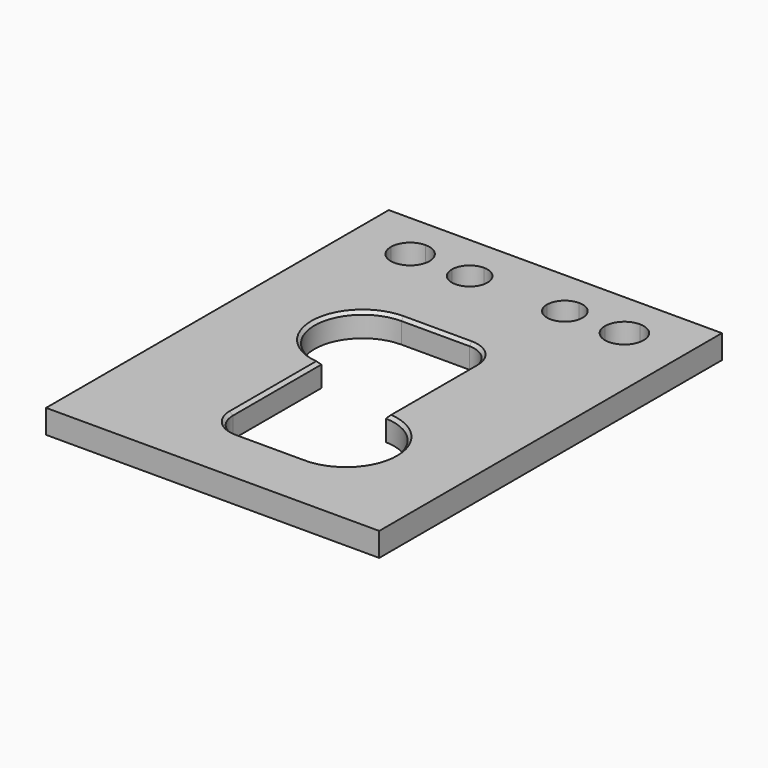
from build123d import *

# Parameters (mm, degrees)
F1_DEPTH = 6.35
F2_SIZE  = 0.8128


with BuildPart() as f1:
    # F0 (on Top) → F1 (new body)
    with BuildSketch(Plane.XY):
        with BuildLine():
            Line((-44.45, -57.15), (44.45, -57.15))
            Line((44.45, -57.15), (44.45, 44.45))
            Line((44.45, 44.45), (33.7312, 44.45))
            ThreePointArc((33.7312, 44.45), (28.575, 39.2938), (23.4188, 44.45))
            Line((23.4188, 44.45), (17.4625, 44.45))
            ThreePointArc((17.4625, 44.45), (12.7, 39.6875), (7.9375, 44.45))
            Line((7.9375, 44.45), (-7.9375, 44.45))
            ThreePointArc((-7.9375, 44.45), (-12.7, 39.6875), (-17.4625, 44.45))
            Line((-17.4625, 44.45), (-23.4188, 44.45))
            ThreePointArc((-23.4188, 44.45), (-28.575, 39.2938), (-33.7312, 44.45))
            Line((-33.7312, 44.45), (-44.45, 44.45))
            Line((-44.45, 44.45), (-44.45, -57.15))
        make_face()
        with BuildLine():
            Line((-12.109895, 20.903632), (6.057415, 20.903632))
            ThreePointArc((6.057415, 20.903632), (10.873895, 18.908581), (12.868946, 14.092101))
            Line((12.868946, 14.092101), (12.868946, -15.48064))
            ThreePointArc((12.868946, -15.48064), (25.361762, -28.701794), (12.140608, -41.194611))
            Line((12.140608, -41.194611), (-6.026703, -41.194611))
            ThreePointArc((-6.026703, -41.194611), (-10.843182, -39.19956), (-12.838233, -34.383081))
            Line((-12.838233, -34.383081), (-12.838233, -4.810339))
            ThreePointArc((-12.838233, -4.810339), (-24.972037, 8.400646), (-12.109895, 20.903632))
        make_face(mode=Mode.SUBTRACT)
        with BuildLine():
            Line((33.7312, 44.45), (44.45, 44.45))
            Line((44.45, 44.45), (44.45, 57.15))
            Line((44.45, 57.15), (28.575, 57.15))
            Line((28.575, 57.15), (28.575, 49.6062))
            ThreePointArc((28.575, 49.6062), (32.220984, 48.095984), (33.7312, 44.45))
        make_face()
        with BuildLine():
            Line((-44.45, 57.15), (-44.45, 44.45))
            Line((-44.45, 44.45), (-33.7312, 44.45))
            ThreePointArc((-33.7312, 44.45), (-32.220984, 48.095984), (-28.575, 49.6062))
            Line((-28.575, 49.6062), (-28.575, 57.15))
            Line((-28.575, 57.15), (-44.45, 57.15))
        make_face()
        with BuildLine():
            Line((28.575, 49.6062), (28.575, 57.15))
            Line((28.575, 57.15), (12.7, 57.15))
            Line((12.7, 57.15), (12.7, 49.2125))
            ThreePointArc((12.7, 49.2125), (16.067596, 47.817596), (17.4625, 44.45))
            Line((17.4625, 44.45), (23.4188, 44.45))
            ThreePointArc((23.4188, 44.45), (24.929016, 48.095984), (28.575, 49.6062))
        make_face()
        with BuildLine():
            Line((-12.7, 57.15), (-28.575, 57.15))
            Line((-28.575, 57.15), (-28.575, 49.6062))
            ThreePointArc((-28.575, 49.6062), (-24.929016, 48.095984), (-23.4188, 44.45))
            Line((-23.4188, 44.45), (-17.4625, 44.45))
            ThreePointArc((-17.4625, 44.45), (-16.067596, 47.817596), (-12.7, 49.2125))
            Line((-12.7, 49.2125), (-12.7, 57.15))
        make_face()
        with BuildLine():
            Line((12.7, 49.2125), (12.7, 57.15))
            Line((12.7, 57.15), (-12.7, 57.15))
            Line((-12.7, 57.15), (-12.7, 49.2125))
            ThreePointArc((-12.7, 49.2125), (-9.332404, 47.817596), (-7.9375, 44.45))
            Line((-7.9375, 44.45), (7.9375, 44.45))
            ThreePointArc((7.9375, 44.45), (9.332404, 47.817596), (12.7, 49.2125))
        make_face()
    extrude(amount=-F1_DEPTH)

    # F2
    f2_edges = [f1.edges().sort_by_distance(p)[0] for p in [
        (12.868946, -0.694269, 0),
        (-12.838233, -19.59671, 0),
        (-10.843182, -39.19956, 0),
        (3.056952, -41.194611, 0),
        (25.361762, -28.701794, 0),
    ]]
    chamfer(f2_edges, length=F2_SIZE)


solid = f1.part
